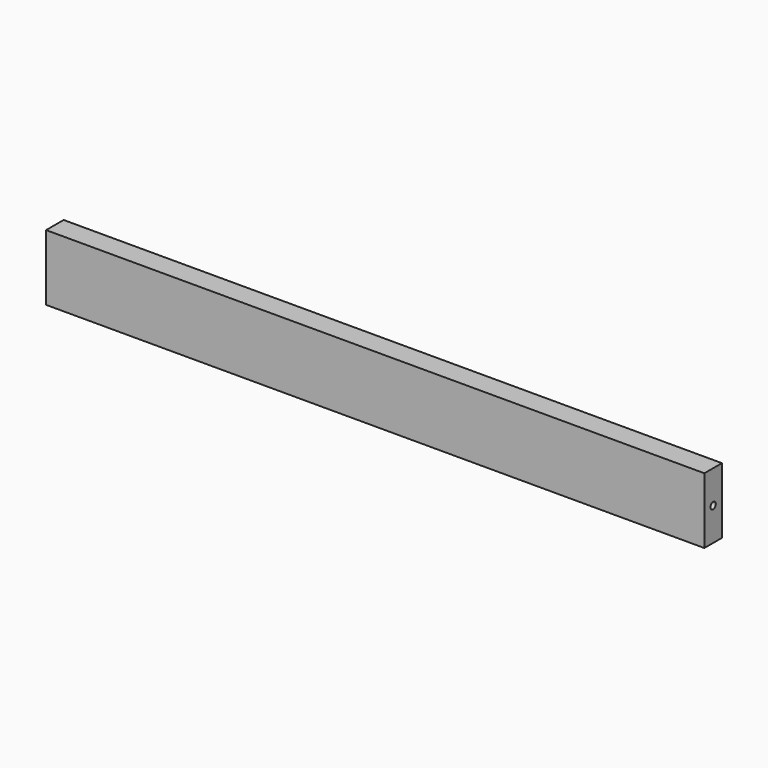
from build123d import *

# Parameters (mm, degrees)
F0_W          = 20
F0_H          = 60
F1_DEPTH      = 300
F1_DEPTH_BACK = 300
F2_R          = 3
F3_DEPTH      = 10
F4_R          = 3
F5_DEPTH      = 10


with BuildPart() as f1:
    # F0 (on Right) → F1 (new body, two sides)
    with BuildSketch(Plane.YZ) as f1_sk:
        with Locations((10, 30)):
            Rectangle(F0_W, F0_H)
    extrude(amount=F1_DEPTH)
    extrude(f1_sk.sketch, amount=-F1_DEPTH_BACK)

    # F2 (on face) → F3 (cut)
    with BuildSketch(Plane.YZ.offset(300)):
        with Locations((10, 30)):
            Circle(F2_R)
    extrude(amount=-F3_DEPTH, mode=Mode.SUBTRACT)

    # F4 (on face) → F5 (cut)
    with BuildSketch(Plane(origin=(-300, 0, 0), x_dir=(0, -1, 0), z_dir=(-1, 0, 0))):
        with Locations((-10, 30)):
            Circle(F4_R)
    extrude(amount=-F5_DEPTH, mode=Mode.SUBTRACT)


solid = f1.part
